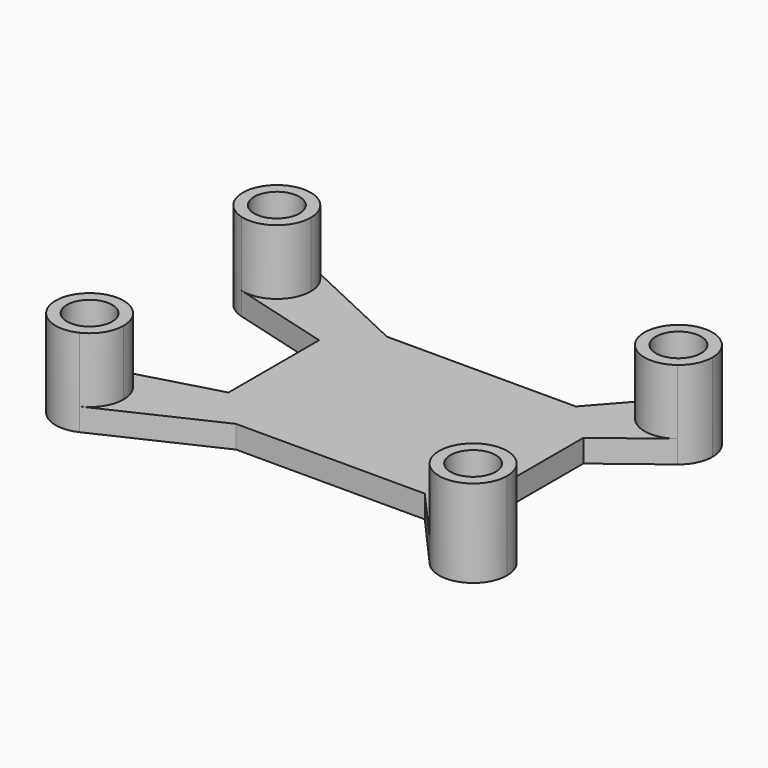
from build123d import *

# Parameters (mm, degrees)
F1_DEPTH = 3
F0_R     = 3
F2_DEPTH = 11.6


with BuildPart() as f1:
    # F0 (on Top) → F1 (new body)
    with BuildSketch(Plane.XY):
        with BuildLine():
            Line((-15.406721, -12.5), (-15.406721, -7.5))
            Line((-15.406721, -7.5), (-28.609985, -11.163855))
            ThreePointArc((-28.609985, -11.163855), (-24.683184, -11.917774), (-22.906721, -15.5))
            ThreePointArc((-22.906721, -15.5), (-23.608966, -17.91393), (-25.496524, -19.57445))
            Line((-25.496524, -19.57445), (-10.406721, -12.5))
            Line((-10.406721, -12.5), (-15.406721, -12.5))
        make_face()
        Polygon((14.593279, 12.5), (-10.406721, 12.5), (-15.406721, 12.5), (-15.406721, 7.5), (-15.406721, -7.5), (-15.406721, -12.5), (-10.406721, -12.5), (14.593279, -12.5), (19.593279, -12.5), (19.593279, -7.5), (19.593279, 7.5), (19.593279, 12.5), align=None)
        with BuildLine():
            ThreePointArc((-25.496524, 19.57445), (-23.608966, 17.91393), (-22.906721, 15.5))
            ThreePointArc((-22.906721, 15.5), (-24.683184, 11.917774), (-28.609985, 11.163855))
            Line((-28.609985, 11.163855), (-15.406721, 7.5))
            Line((-15.406721, 7.5), (-15.406721, 12.5))
            Line((-15.406721, 12.5), (-10.406721, 12.5))
            Line((-10.406721, 12.5), (-25.496524, 19.57445))
        make_face()
        with BuildLine():
            Line((27.330159, -13.427958), (19.593279, -7.5))
            Line((19.593279, -7.5), (19.593279, -12.5))
            Line((19.593279, -12.5), (14.593279, -12.5))
            Line((14.593279, -12.5), (21.225295, -19.984407))
            ThreePointArc((21.225295, -19.984407), (21.299902, -13.93346), (27.330159, -13.427958))
        make_face()
        with BuildLine():
            Line((21.225295, 19.984407), (14.593279, 12.5))
            Line((14.593279, 12.5), (19.593279, 12.5))
            Line((19.593279, 12.5), (19.593279, 7.5))
            Line((19.593279, 7.5), (27.330159, 13.427958))
            ThreePointArc((27.330159, 13.427958), (21.299902, 13.93346), (21.225295, 19.984407))
        make_face()
    extrude(amount=F1_DEPTH)

    # F0 (on Top) → F2 (join)
    with BuildSketch(Plane.XY):
        with BuildLine():
            ThreePointArc((-22.906721, -15.5), (-24.683184, -11.917774), (-28.609985, -11.163855))
            ThreePointArc((-28.609985, -11.163855), (-31.626848, -17.06222), (-25.496524, -19.57445))
            ThreePointArc((-25.496524, -19.57445), (-23.608966, -17.91393), (-22.906721, -15.5))
        make_face()
        with Locations((-27.406721, -15.5)):
            Circle(F0_R, mode=Mode.SUBTRACT)
        with BuildLine():
            ThreePointArc((29.093279, -17), (28.628496, -15.008262), (27.330159, -13.427958))
            ThreePointArc((27.330159, -13.427958), (21.299902, -13.93346), (21.225295, -19.984407))
            ThreePointArc((21.225295, -19.984407), (26.189223, -21.207489), (29.093279, -17))
        make_face()
        with Locations((24.593279, -17)):
            Circle(F0_R, mode=Mode.SUBTRACT)
        with BuildLine():
            ThreePointArc((29.093279, 17), (26.189223, 21.207489), (21.225295, 19.984407))
            ThreePointArc((21.225295, 19.984407), (21.299902, 13.93346), (27.330159, 13.427958))
            ThreePointArc((27.330159, 13.427958), (28.628496, 15.008262), (29.093279, 17))
        make_face()
        with Locations((24.593279, 17)):
            Circle(F0_R, mode=Mode.SUBTRACT)
        with BuildLine():
            ThreePointArc((-28.609985, 11.163855), (-24.683184, 11.917774), (-22.906721, 15.5))
            ThreePointArc((-22.906721, 15.5), (-23.608966, 17.91393), (-25.496524, 19.57445))
            ThreePointArc((-25.496524, 19.57445), (-31.626848, 17.06222), (-28.609985, 11.163855))
        make_face()
        with Locations((-27.406721, 15.5)):
            Circle(F0_R, mode=Mode.SUBTRACT)
    extrude(amount=F2_DEPTH)


solid = f1.part
